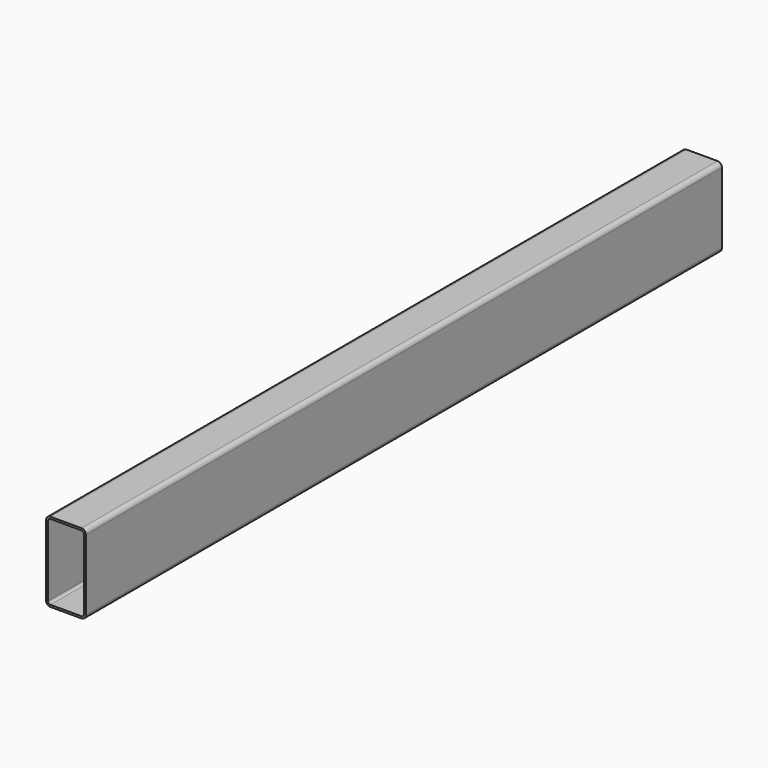
from build123d import *

# Parameters (mm, degrees)
F0_W     = 50
F0_H     = 100
F1_DEPTH = 1000
F2_R     = 5.5
F3_T     = -2.5


with BuildPart() as f1:
    # F0 (on Front) → F1 (new body)
    with BuildSketch(Plane.XZ):
        Rectangle(F0_W, F0_H)
    extrude(amount=F1_DEPTH)

    # F2
    f2_edges = [f1.edges().sort_by_distance(p)[0] for p in [
        (-25, -500, 50),
        (25, -500, 50),
        (25, -500, -50),
        (-25, -500, -50),
    ]]
    fillet(f2_edges, radius=F2_R)

    # F3
    f3_openings = [f1.faces().sort_by_distance(p)[0] for p in [
        (0, -1000, 0),
        (0, 0, 0),
    ]]
    offset(amount=F3_T, openings=f3_openings)


solid = f1.part
